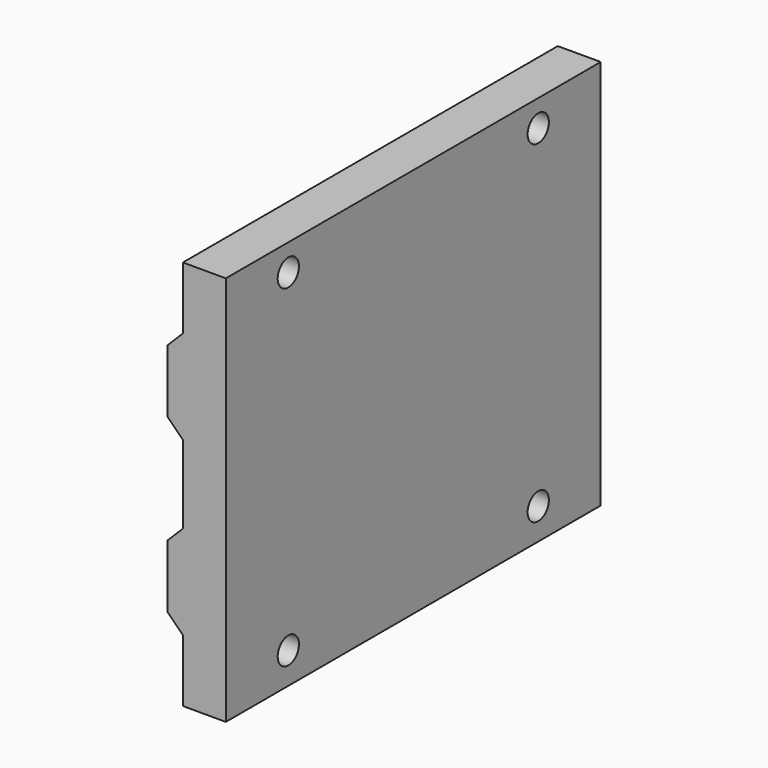
from build123d import *

# Parameters (mm, degrees)
F1_DEPTH = 76.2
F3_D     = 4.318
F3_DEPTH = 12.7
F3_TIP   = 1.2972580765
F4_D     = 4.318
F4_DEPTH = 12.7
F4_TIP   = 1.2972580765
F5_R     = 3.96875
F5_R_2   = 2.159
F6_DEPTH = 2.54
F7_DEPTH = 2.54


with BuildPart() as f1:
    # F0 (on Front) → F1 (new body)
    with BuildSketch(Plane.XZ):
        Polygon((6.985, 50.8), (6.985, 40.64), (9.525, 38.1), (9.525, 25.4), (6.985, 22.86), (6.985, 12.7), (9.525, 10.16), (9.525, 0), (16.51, 0), (16.51, 63.5), (9.525, 63.5), (9.525, 53.34), align=None)
    extrude(amount=F1_DEPTH)

    # F3
    with Locations(Plane(origin=(9.525, 0, 0), x_dir=(0, -1, 0), z_dir=(-1, 0, 0))):
        with Locations((12.7, 5.08), (63.5, 5.08)):
            Hole(F3_D / 2, depth=F3_DEPTH)
            with Locations((0, 0, -(F3_DEPTH + F3_TIP / 2))):  # 118° drill point
                Cone(0, F3_D / 2, F3_TIP, mode=Mode.SUBTRACT)

    # F4
    with Locations(Plane(origin=(9.525, 0, 0), x_dir=(0, -1, 0), z_dir=(-1, 0, 0))):
        with Locations((12.7, 59.182), (63.5, 59.182)):
            Hole(F4_D / 2, depth=F4_DEPTH)
            with Locations((0, 0, -(F4_DEPTH + F4_TIP / 2))):  # 118° drill point
                Cone(0, F4_D / 2, F4_TIP, mode=Mode.SUBTRACT)

    # F5 (on face) → F6 (cut)
    with BuildSketch(Plane(origin=(9.525, 0, 0), x_dir=(0, -1, 0), z_dir=(-1, 0, 0))):
        with Locations((12.7, 5.08)):
            Circle(F5_R)
        with Locations((12.7, 5.08)):
            Circle(F5_R_2, mode=Mode.SUBTRACT)
        with Locations((63.5, 5.08)):
            Circle(F5_R)
        with Locations((63.5, 5.08)):
            Circle(F5_R_2, mode=Mode.SUBTRACT)
    extrude(amount=-F6_DEPTH, mode=Mode.SUBTRACT)

    # F5 (on face) → F7 (cut)
    with BuildSketch(Plane(origin=(9.525, 0, 0), x_dir=(0, -1, 0), z_dir=(-1, 0, 0))):
        with Locations((12.7, 59.182)):
            Circle(F5_R)
        with Locations((12.7, 59.182)):
            Circle(F5_R_2, mode=Mode.SUBTRACT)
        with Locations((63.5, 59.182)):
            Circle(F5_R)
        with Locations((63.5, 59.182)):
            Circle(F5_R_2, mode=Mode.SUBTRACT)
    extrude(amount=-F7_DEPTH, mode=Mode.SUBTRACT)


solid = f1.part
